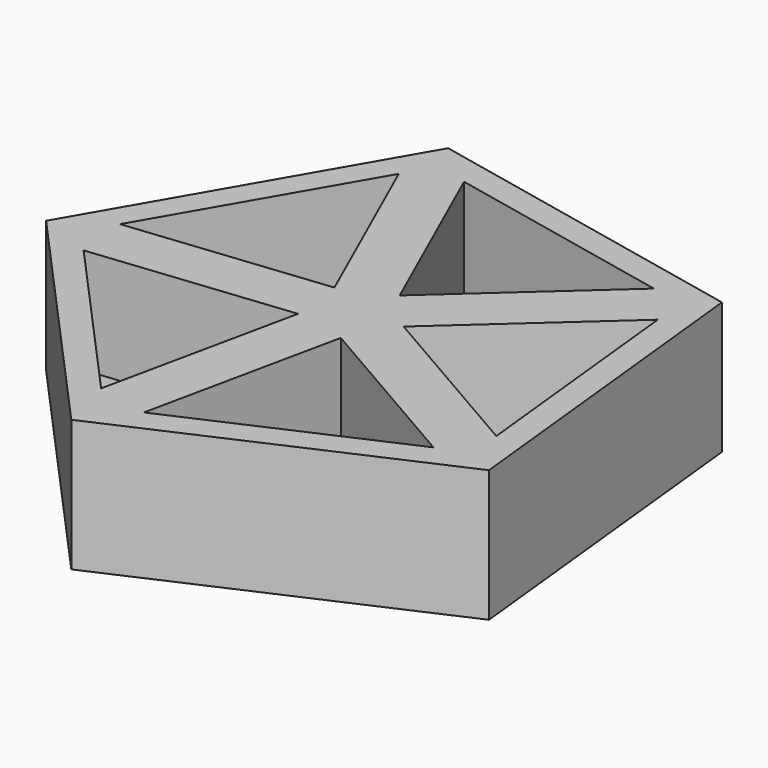
from build123d import *

# Parameters (mm, degrees)
F1_DEPTH = 25.4
F2_DEPTH = 25.4
F4_DEPTH = 6.35


with BuildPart() as f1:
    # F0 (on Top) → F1 (new body)
    with BuildSketch(Plane.XY):
        Polygon((0, 0), (-14.361076, -67.622363), (59.874873, -34.554655), align=None)
        Polygon((4.395829, -9.868497), (45.906835, -33.825098), (-5.560647, -56.750806), align=None, mode=Mode.SUBTRACT)
        Polygon((0, 0), (-68.750506, -7.238264), (-14.361076, -67.622363), align=None)
        Polygon((-17.983588, -54.112525), (-55.691559, -12.248475), (-8.027112, -7.230215), align=None, mode=Mode.SUBTRACT)
        Polygon((51.365783, 46.266412), (-28.129073, 63.14887), (0, 0), align=None)
        Polygon((-17.257516, 54.34844), (37.855945, 42.643901), (2.244256, 10.567585), align=None, mode=Mode.SUBTRACT)
        Polygon((51.365783, 46.266412), (0, 0), (59.874873, -34.554655), align=None)
        Polygon((46.355573, 33.207464), (52.25489, -22.825453), (10.743884, 1.131149), align=None, mode=Mode.SUBTRACT)
    extrude(amount=F1_DEPTH)

    # F0 (on Top) → F2 (join)
    with BuildSketch(Plane.XY):
        Polygon((0, 0), (-68.750506, -7.238264), (-14.361076, -67.622363), align=None)
        Polygon((-17.983588, -54.112525), (-55.691559, -12.248475), (-8.027112, -7.230215), align=None, mode=Mode.SUBTRACT)
        Polygon((-28.129073, 63.14887), (-68.750506, -7.238264), (0, 0), align=None)
        Polygon((-57.021304, 0.381718), (-28.85863, 49.180833), (-9.356857, 5.399978), align=None, mode=Mode.SUBTRACT)
        Polygon((51.365783, 46.266412), (-28.129073, 63.14887), (0, 0), align=None)
        Polygon((-17.257516, 54.34844), (37.855945, 42.643901), (2.244256, 10.567585), align=None, mode=Mode.SUBTRACT)
        Polygon((0, 0), (-14.361076, -67.622363), (59.874873, -34.554655), align=None)
        Polygon((4.395829, -9.868497), (45.906835, -33.825098), (-5.560647, -56.750806), align=None, mode=Mode.SUBTRACT)
        Polygon((51.365783, 46.266412), (0, 0), (59.874873, -34.554655), align=None)
        Polygon((46.355573, 33.207464), (52.25489, -22.825453), (10.743884, 1.131149), align=None, mode=Mode.SUBTRACT)
    extrude(amount=F2_DEPTH)

    # F3 (on face) → F4 (join)
    with BuildSketch(Plane(origin=(0, 0, 0), x_dir=(1, 0, 0), z_dir=(0, 0, -1))):
        Polygon((-68.750506, 7.238264), (-28.129073, -63.14887), (51.365783, -46.266412), (59.874873, 34.554655), (-14.361076, 67.622363), align=None)
    extrude(amount=F4_DEPTH)


solid = f1.part
